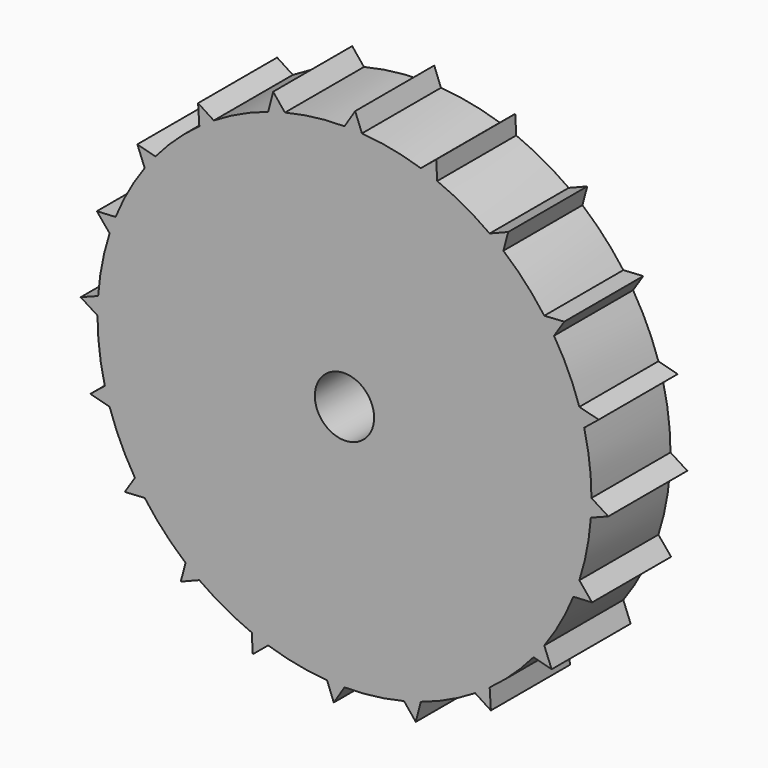
from build123d import *

# Parameters (mm, degrees)
F0_R     = 31.75
F0_R_2   = 3.81
F1_DEPTH = 12.7
F4_DEPTH = 12.7
F5_COUNT = 20


with BuildPart() as f1:
    # F0 (on Front) → F1 (new body)
    with BuildSketch(Plane.XZ):
        Circle(F0_R)
        Circle(F0_R_2, mode=Mode.SUBTRACT)
    extrude(amount=F1_DEPTH)

    # F2 (on face) → F4 (join, through all)
    with BuildSketch(Plane.XZ.offset(12.7)):
        with BuildLine():
            Line((1.376606524, 33.9144617319), (0, 31.75))
            ThreePointArc((0, 31.75), (1.1215923583, 31.7301832737), (2.2417846354, 31.6707578319))
            Line((2.2417846354, 31.6707578319), (1.376606524, 33.9144617319))
        make_face()
    extrude(amount=-F4_DEPTH)

    # F5: F1 ×20 about axis
    f5_axis = Axis((0, -7.9411361367, 0), (0, -1, 0))


with BuildPart() as f1_1:
    add(f1.part)
    for i in range(1, F5_COUNT):
        add(f1.part.rotate(f5_axis, i * 360 / F5_COUNT))


solid = f1_1.part
